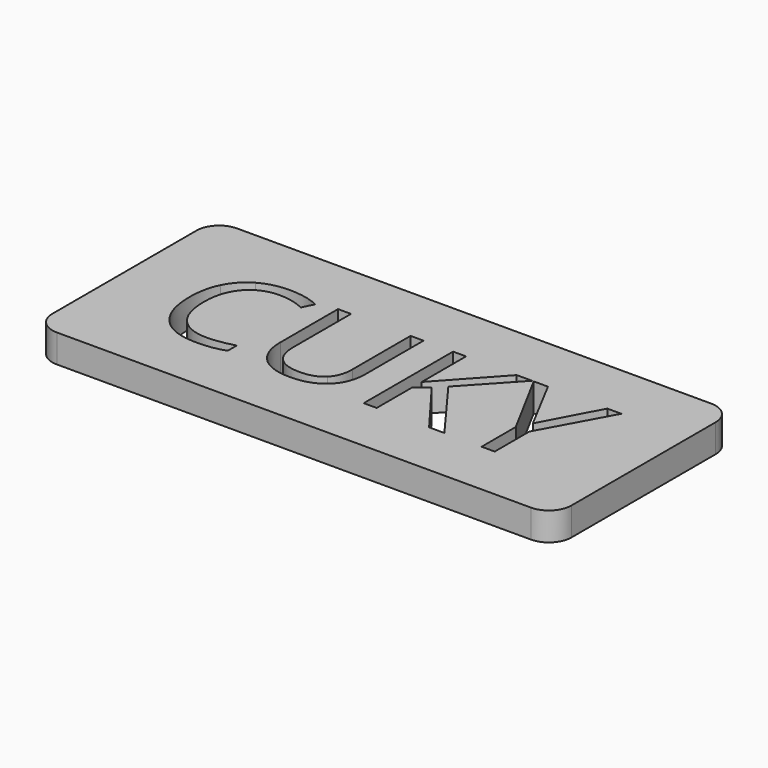
from build123d import *

# Parameters (mm, degrees)
F0_W     = 92.1527777778
F0_H     = 40
F1_DEPTH = 5
F2_R     = 4


with BuildPart() as f1:
    # F0 (on Top) → F1 (new body)
    with BuildSketch(Plane.XY):
        with Locations((-33.8721656561, 26.8162500644)):
            Rectangle(F0_W, F0_H)
        with BuildLine():
            add(Edge.make_bspline(
                [(-54.2280684339, 33.8127778422), (-56.4806726005, 34.8674653422), (-58.7332767672, 34.8674653422)],
                knots=[0, 0, 0, 1, 1, 1], degree=2))
            add(Edge.make_bspline(
                [(-58.7332767672, 34.8674653422), (-62.0015059339, 34.8674653422), (-63.893867045, 32.6908160367)],
                knots=[0, 0, 0, 1, 1, 1], degree=2))
            add(Edge.make_bspline(
                [(-63.893867045, 32.6908160367), (-65.7862281561, 30.5141667311), (-65.7862281561, 26.7294445089)],
                knots=[0, 0, 0, 1, 1, 1], degree=2))
            add(Edge.make_bspline(
                [(-65.7862281561, 26.7294445089), (-65.7862281561, 22.84055562), (-63.9611413505, 20.7159896478)],
                knots=[0, 0, 0, 1, 1, 1], degree=2))
            add(Edge.make_bspline(
                [(-63.9611413505, 20.7159896478), (-62.136054545, 18.5914236756), (-58.7593184339, 18.5914236756)],
                knots=[0, 0, 0, 1, 1, 1], degree=2))
            add(Edge.make_bspline(
                [(-58.7593184339, 18.5914236756), (-56.6846656561, 18.5914236756), (-54.0240753783, 19.3379514533)],
                knots=[0, 0, 0, 1, 1, 1], degree=2))
            Line((-54.0240753783, 19.3379514533), (-54.0240753783, 17.3197222867))
            add(Edge.make_bspline(
                [(-54.0240753783, 17.3197222867), (-56.0857073228, 16.5428125644), (-59.1108809339, 16.5428125644)],
                knots=[0, 0, 0, 1, 1, 1], degree=2))
            add(Edge.make_bspline(
                [(-59.1108809339, 16.5428125644), (-63.4902212117, 16.5428125644), (-65.8708635728, 19.2034028422)],
                knots=[0, 0, 0, 1, 1, 1], degree=2))
            add(Edge.make_bspline(
                [(-65.8708635728, 19.2034028422), (-68.2515059339, 21.86399312), (-68.2515059339, 26.7598264533)],
                knots=[0, 0, 0, 1, 1, 1], degree=2))
            add(Edge.make_bspline(
                [(-68.2515059339, 26.7598264533), (-68.2515059339, 29.8240625644), (-67.1056726005, 32.1287500644)],
                knots=[0, 0, 0, 1, 1, 1], degree=2))
            add(Edge.make_bspline(
                [(-67.1056726005, 32.1287500644), (-65.9598392672, 34.4334375644), (-63.796210795, 35.6812674256)],
                knots=[0, 0, 0, 1, 1, 1], degree=2))
            add(Edge.make_bspline(
                [(-63.796210795, 35.6812674256), (-61.6325823228, 36.9290972867), (-58.7028948228, 36.9290972867)],
                knots=[0, 0, 0, 1, 1, 1], degree=2))
            add(Edge.make_bspline(
                [(-58.7028948228, 36.9290972867), (-55.5865753783, 36.9290972867), (-53.2515059339, 35.7919445089)],
                knots=[0, 0, 0, 1, 1, 1], degree=2))
            Line((-53.2515059339, 35.7919445089), (-54.2280684339, 33.8127778422))
        make_face(mode=Mode.SUBTRACT)
        with BuildLine():
            Line((-37.0275476005, 36.6469792311), (-34.7228601005, 36.6469792311))
            Line((-34.7228601005, 36.6469792311), (-34.7228601005, 23.81711812))
            add(Edge.make_bspline(
                [(-34.7228601005, 23.81711812), (-34.7228601005, 20.4230208978), (-36.7714712117, 18.4829167311)],
                knots=[0, 0, 0, 1, 1, 1], degree=2))
            add(Edge.make_bspline(
                [(-36.7714712117, 18.4829167311), (-38.8200823228, 16.5428125644), (-42.4008114894, 16.5428125644)],
                knots=[0, 0, 0, 1, 1, 1], degree=2))
            add(Edge.make_bspline(
                [(-42.4008114894, 16.5428125644), (-45.9815406561, 16.5428125644), (-47.9411760728, 18.4981077033)],
                knots=[0, 0, 0, 1, 1, 1], degree=2))
            add(Edge.make_bspline(
                [(-47.9411760728, 18.4981077033), (-49.9008114894, 20.4534028422), (-49.9008114894, 23.8692014533)],
                knots=[0, 0, 0, 1, 1, 1], degree=2))
            Line((-49.9008114894, 23.8692014533), (-49.9008114894, 36.6469792311))
            Line((-49.9008114894, 36.6469792311), (-47.5917837117, 36.6469792311))
            Line((-47.5917837117, 36.6469792311), (-47.5917837117, 23.7086111756))
            add(Edge.make_bspline(
                [(-47.5917837117, 23.7086111756), (-47.5917837117, 21.2259722867), (-46.2354469061, 19.8956771478)],
                knots=[0, 0, 0, 1, 1, 1], degree=2))
            add(Edge.make_bspline(
                [(-46.2354469061, 19.8956771478), (-44.8791101005, 18.5653820089), (-42.2489017672, 18.5653820089)],
                knots=[0, 0, 0, 1, 1, 1], degree=2))
            add(Edge.make_bspline(
                [(-42.2489017672, 18.5653820089), (-39.7402212117, 18.5653820089), (-38.3838844061, 19.9021875644)],
                knots=[0, 0, 0, 1, 1, 1], degree=2))
            add(Edge.make_bspline(
                [(-38.3838844061, 19.9021875644), (-37.0275476005, 21.23899312), (-37.0275476005, 23.7346528422)],
                knots=[0, 0, 0, 1, 1, 1], degree=2))
            Line((-37.0275476005, 23.7346528422), (-37.0275476005, 36.6469792311))
        make_face(mode=Mode.SUBTRACT)
        Polygon((-23.425117045, 28.0315278422), (-15.1525476005, 16.8162500644), (-17.8652212117, 16.8162500644), (-25.0917837117, 26.43430562), (-27.1707767672, 24.5896875644), (-27.1707767672, 16.8162500644), (-29.4754642672, 16.8162500644), (-29.4754642672, 36.6469792311), (-27.1707767672, 36.6469792311), (-27.1707767672, 26.8119097867), (-18.1777212117, 36.6469792311), (-15.4520267672, 36.6469792311), align=None, mode=Mode.SUBTRACT)
        Polygon((-12.6308462117, 36.6469792311), (-7.3791101005, 26.7294445089), (-2.0926517672, 36.6469792311), (0.403007955, 36.6469792311), (-6.2159156561, 24.5072222867), (-6.2159156561, 16.8162500644), (-8.5466448228, 16.8162500644), (-8.5466448228, 24.3987153422), (-15.1525476005, 36.6469792311), align=None, mode=Mode.SUBTRACT)
        with Locations((-33.8721656561, 26.8162500644)):
            Rectangle(F0_W, F0_H)
        with BuildLine():
            add(Edge.make_bspline(
                [(-54.2280684339, 33.8127778422), (-56.4806726005, 34.8674653422), (-58.7332767672, 34.8674653422)],
                knots=[0, 0, 0, 1, 1, 1], degree=2))
            add(Edge.make_bspline(
                [(-58.7332767672, 34.8674653422), (-62.0015059339, 34.8674653422), (-63.893867045, 32.6908160367)],
                knots=[0, 0, 0, 1, 1, 1], degree=2))
            add(Edge.make_bspline(
                [(-63.893867045, 32.6908160367), (-65.7862281561, 30.5141667311), (-65.7862281561, 26.7294445089)],
                knots=[0, 0, 0, 1, 1, 1], degree=2))
            add(Edge.make_bspline(
                [(-65.7862281561, 26.7294445089), (-65.7862281561, 22.84055562), (-63.9611413505, 20.7159896478)],
                knots=[0, 0, 0, 1, 1, 1], degree=2))
            add(Edge.make_bspline(
                [(-63.9611413505, 20.7159896478), (-62.136054545, 18.5914236756), (-58.7593184339, 18.5914236756)],
                knots=[0, 0, 0, 1, 1, 1], degree=2))
            add(Edge.make_bspline(
                [(-58.7593184339, 18.5914236756), (-56.6846656561, 18.5914236756), (-54.0240753783, 19.3379514533)],
                knots=[0, 0, 0, 1, 1, 1], degree=2))
            Line((-54.0240753783, 19.3379514533), (-54.0240753783, 17.3197222867))
            add(Edge.make_bspline(
                [(-54.0240753783, 17.3197222867), (-56.0857073228, 16.5428125644), (-59.1108809339, 16.5428125644)],
                knots=[0, 0, 0, 1, 1, 1], degree=2))
            add(Edge.make_bspline(
                [(-59.1108809339, 16.5428125644), (-63.4902212117, 16.5428125644), (-65.8708635728, 19.2034028422)],
                knots=[0, 0, 0, 1, 1, 1], degree=2))
            add(Edge.make_bspline(
                [(-65.8708635728, 19.2034028422), (-68.2515059339, 21.86399312), (-68.2515059339, 26.7598264533)],
                knots=[0, 0, 0, 1, 1, 1], degree=2))
            add(Edge.make_bspline(
                [(-68.2515059339, 26.7598264533), (-68.2515059339, 29.8240625644), (-67.1056726005, 32.1287500644)],
                knots=[0, 0, 0, 1, 1, 1], degree=2))
            add(Edge.make_bspline(
                [(-67.1056726005, 32.1287500644), (-65.9598392672, 34.4334375644), (-63.796210795, 35.6812674256)],
                knots=[0, 0, 0, 1, 1, 1], degree=2))
            add(Edge.make_bspline(
                [(-63.796210795, 35.6812674256), (-61.6325823228, 36.9290972867), (-58.7028948228, 36.9290972867)],
                knots=[0, 0, 0, 1, 1, 1], degree=2))
            add(Edge.make_bspline(
                [(-58.7028948228, 36.9290972867), (-55.5865753783, 36.9290972867), (-53.2515059339, 35.7919445089)],
                knots=[0, 0, 0, 1, 1, 1], degree=2))
            Line((-53.2515059339, 35.7919445089), (-54.2280684339, 33.8127778422))
        make_face(mode=Mode.SUBTRACT)
        with BuildLine():
            Line((-37.0275476005, 36.6469792311), (-34.7228601005, 36.6469792311))
            Line((-34.7228601005, 36.6469792311), (-34.7228601005, 23.81711812))
            add(Edge.make_bspline(
                [(-34.7228601005, 23.81711812), (-34.7228601005, 20.4230208978), (-36.7714712117, 18.4829167311)],
                knots=[0, 0, 0, 1, 1, 1], degree=2))
            add(Edge.make_bspline(
                [(-36.7714712117, 18.4829167311), (-38.8200823228, 16.5428125644), (-42.4008114894, 16.5428125644)],
                knots=[0, 0, 0, 1, 1, 1], degree=2))
            add(Edge.make_bspline(
                [(-42.4008114894, 16.5428125644), (-45.9815406561, 16.5428125644), (-47.9411760728, 18.4981077033)],
                knots=[0, 0, 0, 1, 1, 1], degree=2))
            add(Edge.make_bspline(
                [(-47.9411760728, 18.4981077033), (-49.9008114894, 20.4534028422), (-49.9008114894, 23.8692014533)],
                knots=[0, 0, 0, 1, 1, 1], degree=2))
            Line((-49.9008114894, 23.8692014533), (-49.9008114894, 36.6469792311))
            Line((-49.9008114894, 36.6469792311), (-47.5917837117, 36.6469792311))
            Line((-47.5917837117, 36.6469792311), (-47.5917837117, 23.7086111756))
            add(Edge.make_bspline(
                [(-47.5917837117, 23.7086111756), (-47.5917837117, 21.2259722867), (-46.2354469061, 19.8956771478)],
                knots=[0, 0, 0, 1, 1, 1], degree=2))
            add(Edge.make_bspline(
                [(-46.2354469061, 19.8956771478), (-44.8791101005, 18.5653820089), (-42.2489017672, 18.5653820089)],
                knots=[0, 0, 0, 1, 1, 1], degree=2))
            add(Edge.make_bspline(
                [(-42.2489017672, 18.5653820089), (-39.7402212117, 18.5653820089), (-38.3838844061, 19.9021875644)],
                knots=[0, 0, 0, 1, 1, 1], degree=2))
            add(Edge.make_bspline(
                [(-38.3838844061, 19.9021875644), (-37.0275476005, 21.23899312), (-37.0275476005, 23.7346528422)],
                knots=[0, 0, 0, 1, 1, 1], degree=2))
            Line((-37.0275476005, 23.7346528422), (-37.0275476005, 36.6469792311))
        make_face(mode=Mode.SUBTRACT)
        Polygon((-23.425117045, 28.0315278422), (-15.1525476005, 16.8162500644), (-17.8652212117, 16.8162500644), (-25.0917837117, 26.43430562), (-27.1707767672, 24.5896875644), (-27.1707767672, 16.8162500644), (-29.4754642672, 16.8162500644), (-29.4754642672, 36.6469792311), (-27.1707767672, 36.6469792311), (-27.1707767672, 26.8119097867), (-18.1777212117, 36.6469792311), (-15.4520267672, 36.6469792311), align=None, mode=Mode.SUBTRACT)
        Polygon((-12.6308462117, 36.6469792311), (-7.3791101005, 26.7294445089), (-2.0926517672, 36.6469792311), (0.403007955, 36.6469792311), (-6.2159156561, 24.5072222867), (-6.2159156561, 16.8162500644), (-8.5466448228, 16.8162500644), (-8.5466448228, 24.3987153422), (-15.1525476005, 36.6469792311), align=None, mode=Mode.SUBTRACT)
    extrude(amount=F1_DEPTH)

    # F2
    f2_edges = [f1.edges().sort_by_distance(p)[0] for p in [
        (-79.948555, 46.81625, 2.5),
        (-79.948555, 6.81625, 2.5),
        (12.204223, 6.81625, 2.5),
        (12.204223, 46.81625, 2.5),
    ]]
    fillet(f2_edges, radius=F2_R)


solid = f1.part
